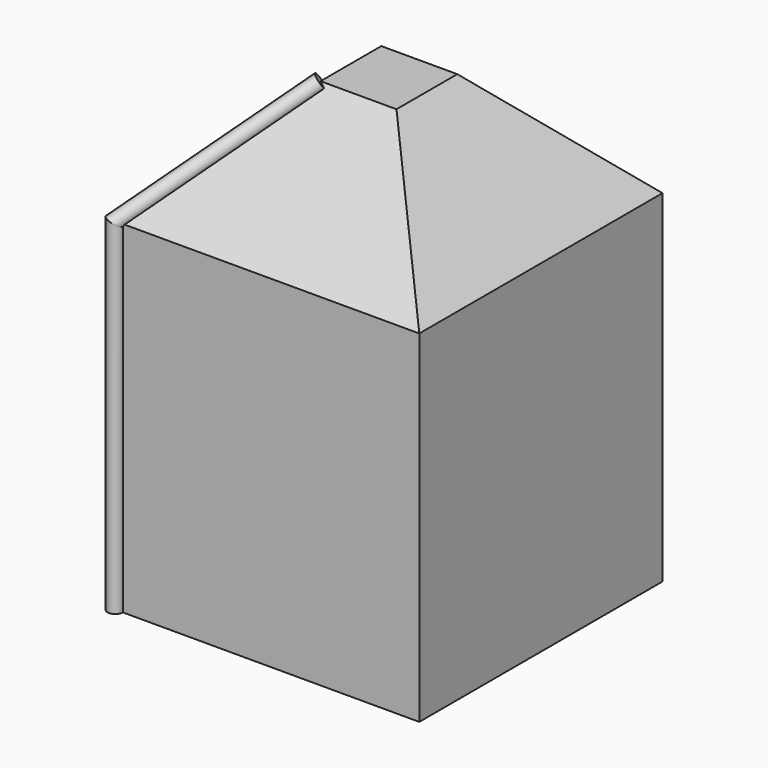
from build123d import *

# Parameters (mm, degrees)
F0_W     = 50.8
F0_H     = 50.8
F1_DEPTH = 50.8
F2_DEPTH = 25.4
F3_SIZE  = 19.05
F4_R     = 1.2712774292


with BuildPart() as f1:
    # F0 (on Top) → F1 (new body)
    with BuildSketch(Plane.XY):
        Rectangle(F0_W, F0_H)
    extrude(amount=F1_DEPTH)

    # F2 (add): a face of the model
    f2_faces = [f1.faces().sort_by_distance(p)[0] for p in [
        (0, 0, 50.8),
    ]]
    extrude(f2_faces, amount=F2_DEPTH)

    # F3
    f3_edges = [f1.edges().sort_by_distance(p)[0] for p in [
        (0, 25.4, 76.2),
        (25.4, 0, 76.2),
        (0, -25.4, 76.2),
        (-25.4, 0, 76.2),
    ]]
    chamfer(f3_edges, length=F3_SIZE)


with BuildPart() as f5:
    # F5: sweep along a path in F5_path
    with BuildLine(Plane(origin=(-25.4, -25.4, 0), x_dir=(-0.7071067812, -0.7071067812, 0), z_dir=(0.7071067812, -0.7071067812, 0))) as f5_path:
        Line((0, 0), (0, -57.15))
        Line((0, -57.15), (-26.9407683632, -76.2))
    # F4 (on Top) → F5 (sweep)
    with BuildSketch(Plane.XY):
        with Locations((-25.401333347, -25.4068169743)):
            Circle(F4_R)
    sweep(path=f5_path.line, transition=Transition.RIGHT)


solid = Compound([f1.part, f5.part])
